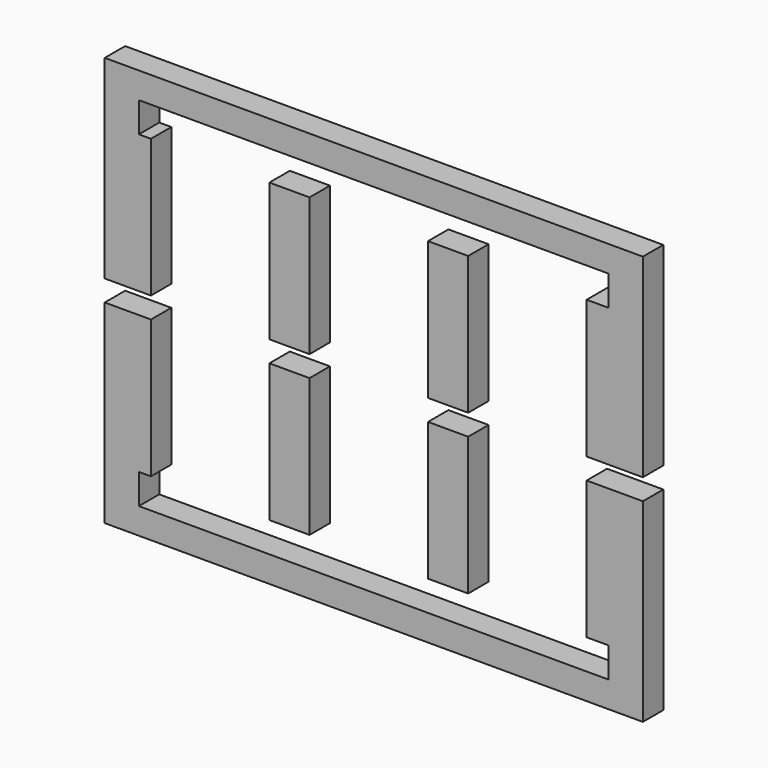
from build123d import *

# Parameters (mm, degrees)
F0_W     = 134
F0_H     = 102
F1_DEPTH = 6.35
F2_W     = 29.5
F2_H     = 79.6
F3_DEPTH = 12.7
F4_W     = 117
F4_H     = 7.5
F4_W_2   = 134
F4_H_2   = 5.25
F5_DEPTH = 6.35


with BuildPart() as f1:
    # F0 (on Front) → F1 (new body)
    with BuildSketch(Plane.XZ):
        Rectangle(F0_W, F0_H)
    extrude(amount=F1_DEPTH)

    # F2 (on face) → F3 (cut)
    with BuildSketch(Plane.XZ.offset(6.35)):
        with Locations((-1.25, 0)):
            Rectangle(F2_W, F2_H)
        Polygon((53, 39.8), (23.5, 39.8), (23.5, -39.8), (53, -39.8), (53, -16.022205), align=None)
        with Locations((-40.75, 0)):
            Rectangle(F2_W, F2_H)
    extrude(amount=-F3_DEPTH, mode=Mode.SUBTRACT)

    # F4 (on face) → F5 (cut)
    with BuildSketch(Plane.XZ.offset(6.35)):
        with Locations((0, 40.75)):
            Rectangle(F4_W, F4_H)
        Rectangle(F4_W_2, F4_H_2)
        with Locations((0, -40.75)):
            Rectangle(F4_W, F4_H)
    extrude(amount=-F5_DEPTH, mode=Mode.SUBTRACT)


solid = f1.part
